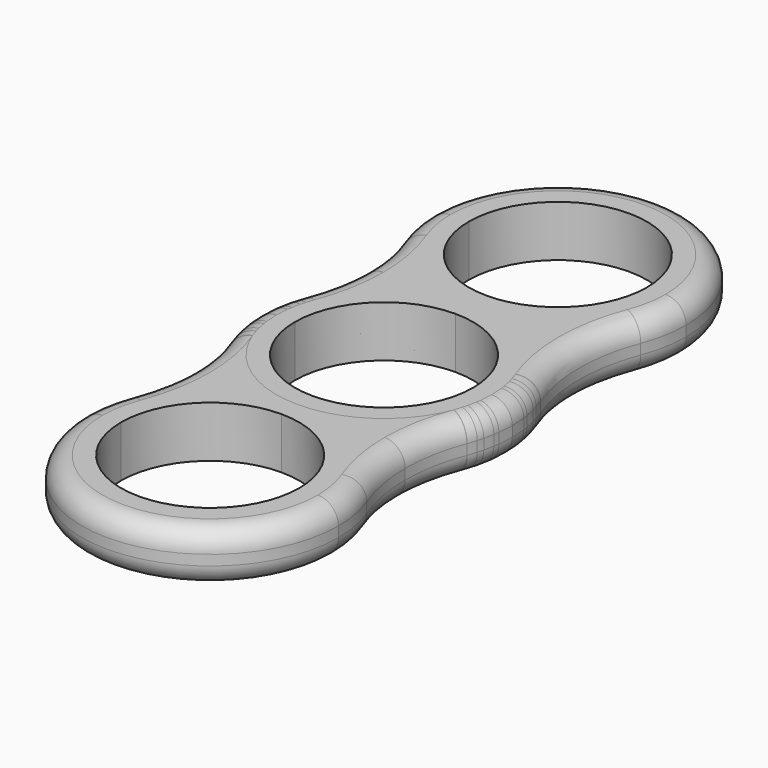
from build123d import *

# Parameters (mm, degrees)
F1_DEPTH = 6.35
F3_COUNT = 2
F4_R     = 2.54
F4_2_R   = 2.54


with BuildPart() as f1:
    # F0 (on Top) → F1 (new body)
    with BuildSketch(Plane.XY):
        with BuildLine():
            Line((-15.875, 26.8986), (-11.0236, 26.8986))
            ThreePointArc((-11.0236, 26.8986), (0, 37.9222), (11.0236, 26.8986))
            Line((11.0236, 26.8986), (15.875, 26.8986))
            ThreePointArc((15.875, 26.8986), (0, 42.7736), (-15.875, 26.8986))
        make_face()
        with BuildLine():
            ThreePointArc((1.87e-08, 15.875), (4.3879373092, 15.2565274939), (8.4339761981, 13.4493))
            ThreePointArc((8.4339761981, 13.4493), (12.2542820839, 16.8066132973), (14.8168373454, 21.1997443184))
            ThreePointArc((14.8168373454, 21.1997443184), (15.608217673, 24.0004685208), (15.875, 26.8986))
            Line((15.875, 26.8986), (11.0236, 26.8986))
            ThreePointArc((11.0236, 26.8986), (7.7948623197, 19.1037376935), (1.87e-08, 15.875))
        make_face()
        with BuildLine():
            ThreePointArc((-14.816837171, 21.1997438649), (-12.2542819295, 16.8066131097), (-8.4339761981, 13.4493))
            ThreePointArc((-8.4339761981, 13.4493), (-4.3879372911, 15.256527499), (1.87e-08, 15.875))
            ThreePointArc((1.87e-08, 15.875), (-7.7948623065, 19.1037376803), (-11.0236, 26.8986))
            Line((-11.0236, 26.8986), (-15.875, 26.8986))
            ThreePointArc((-15.875, 26.8986), (-15.6082176287, 24.0004682819), (-14.816837171, 21.1997438649))
        make_face()
        with BuildLine():
            ThreePointArc((-8.4339761981, 13.4493), (-4.3879373002, 11.6420725036), (-2e-10, 11.0236))
            ThreePointArc((-2e-10, 11.0236), (4.3879373001, 11.6420725035), (8.4339761981, 13.4493))
            ThreePointArc((8.4339761981, 13.4493), (4.3879373092, 15.2565274939), (1.87e-08, 15.875))
            ThreePointArc((1.87e-08, 15.875), (-4.3879372911, 15.256527499), (-8.4339761981, 13.4493))
        make_face()
        with BuildLine():
            ThreePointArc((-2e-10, 11.0236), (7.794862313, 7.7948623132), (11.0236, 0))
            Line((11.0236, 0), (15.875, 0))
            ThreePointArc((15.875, 0), (15.6082176163, 2.898131785), (14.8168371221, 5.6988562621))
            ThreePointArc((14.8168371221, 5.6988562621), (12.2542818862, 10.0919869428), (8.4339761981, 13.4493))
            ThreePointArc((8.4339761981, 13.4493), (4.3879373001, 11.6420725035), (-2e-10, 11.0236))
        make_face()
        with BuildLine():
            ThreePointArc((-11.0236, 0), (-7.7948623132, 7.794862313), (-2e-10, 11.0236))
            ThreePointArc((-2e-10, 11.0236), (-4.3879373002, 11.6420725036), (-8.4339761981, 13.4493))
            ThreePointArc((-8.4339761981, 13.4493), (-12.2542819201, 10.0919869016), (-14.8168371604, 5.6988561625))
            ThreePointArc((-14.8168371604, 5.6988561625), (-15.608217626, 2.8981317325), (-15.875, 0))
            Line((-15.875, 0), (-11.0236, 0))
        make_face()
        with BuildLine():
            Line((15.875, 0), (11.0236, 0))
            ThreePointArc((11.0236, 0), (0, -11.0236), (-11.0236, 0))
            Line((-11.0236, 0), (-15.875, 0))
            ThreePointArc((-15.875, 0), (0, -15.875), (15.875, 0))
        make_face()
        with BuildLine():
            ThreePointArc((14.8168373454, 21.1997443184), (12.2542820839, 16.8066132973), (8.4339761981, 13.4493))
            ThreePointArc((8.4339761981, 13.4493), (12.2542818862, 10.0919869428), (14.8168371221, 5.6988562621))
            ThreePointArc((14.8168371221, 5.6988562621), (13.3777359077, 13.449300311), (14.8168373454, 21.1997443184))
        make_face()
        with BuildLine():
            ThreePointArc((-14.8168371604, 5.6988561625), (-12.2542819201, 10.0919869016), (-8.4339761981, 13.4493))
            ThreePointArc((-8.4339761981, 13.4493), (-12.2542819295, 16.8066131097), (-14.816837171, 21.1997438649))
            ThreePointArc((-14.816837171, 21.1997438649), (-13.7405598858, 17.3907588844), (-13.3777359077, 13.4493))
            ThreePointArc((-13.3777359077, 13.4493), (-13.7405598832, 9.5078411301), (-14.8168371604, 5.6988561625))
        make_face()
    extrude(amount=F1_DEPTH)


with BuildPart() as f3_1:
    # F3: instance of F1
    add(f1.part.rotate(Axis((0, 0, 0), (0, 0, 1)), 1 * 360 / F3_COUNT))

    # F4#2
    f4_2_edges = [f3_1.edges().sort_by_distance(p)[0] for p in [
        (0, -42.7736, 6.35),
        (-14.816837, -21.199744, 3.175),
        (14.816837, -21.199744, 3.175),
        (0, -42.7736, 0),
    ]]
    fillet(f4_2_edges, radius=F4_2_R)


with BuildPart() as f1_1:
    add(f1.part)

    # F4
    f4_edges = [f1_1.edges().sort_by_distance(p)[0] for p in [
        (0, 42.7736, 6.35),
        (0, 42.7736, 0),
    ]]
    fillet(f4_edges, radius=F4_R)


solid = Compound([f3_1.part, f1_1.part])
